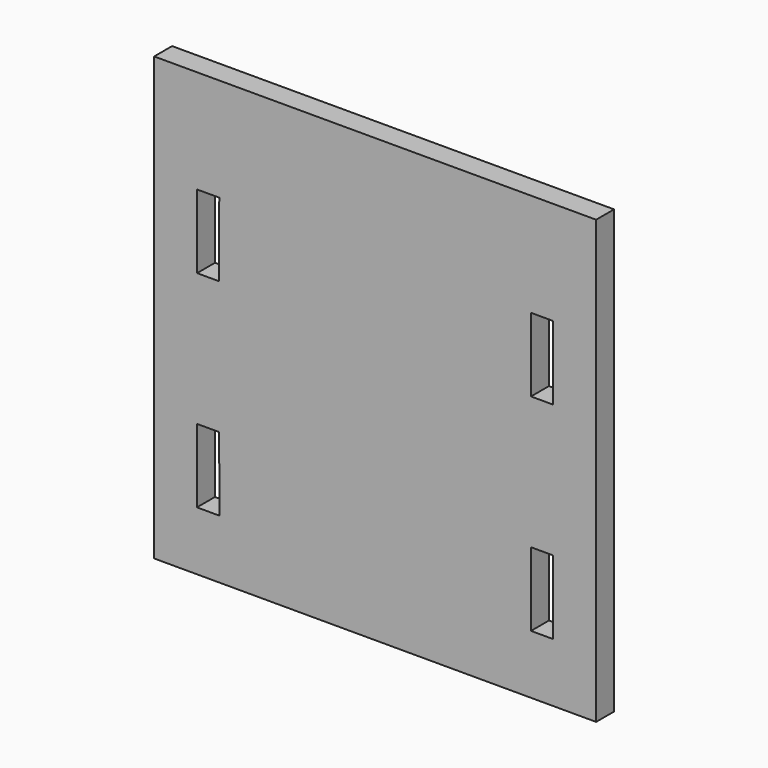
from build123d import *

# Parameters (mm, degrees)
F0_W     = 19.1008
F0_H     = 63.5
F1_DEPTH = 19.3294


with BuildPart() as f1:
    # F0 (on Front) → F1 (new body)
    with BuildSketch(Plane.XZ):
        Polygon((263.06506, 395.92291), (-117.93494, 395.92291), (-118.136241, 14.92291), (263.06506, 14.787505), align=None)
        Polygon((-81.015004, 129.087942), (-61.914204, 129.087942), (-61.682431, 65.702861), (-81.04849, 65.709486), align=None, mode=Mode.SUBTRACT)
        with Locations((216.45606, 97.357456)):
            Rectangle(F0_W, F0_H, mode=Mode.SUBTRACT)
        Polygon((-80.956865, 243.503396), (-80.923315, 307.003359), (-61.822515, 307.003359), (-61.924184, 243.509798), align=None, mode=Mode.SUBTRACT)
        with Locations((216.45606, 275.27291)):
            Rectangle(F0_W, F0_H, mode=Mode.SUBTRACT)
    extrude(amount=F1_DEPTH)


solid = f1.part
